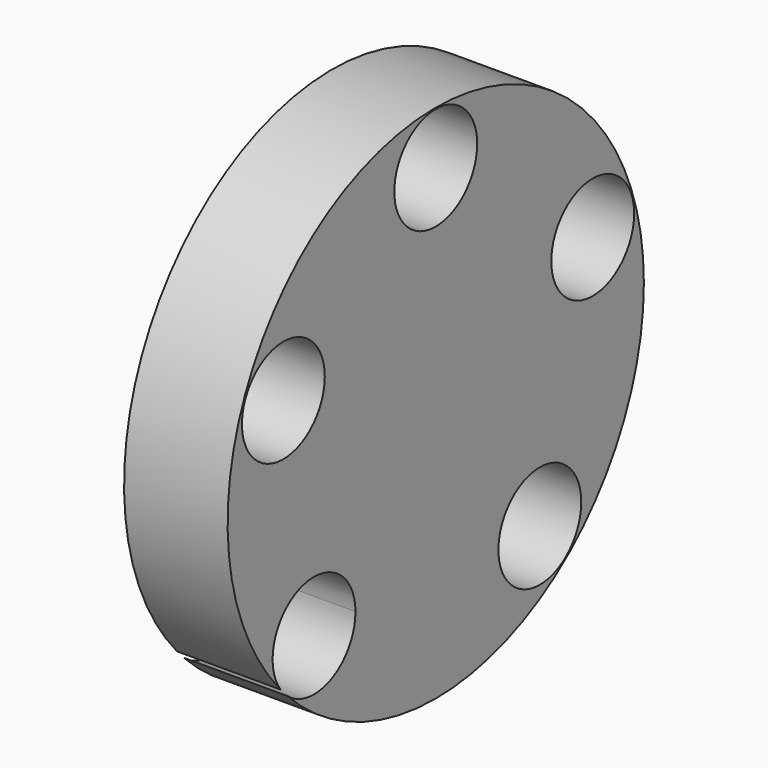
from build123d import *

# Parameters (mm, degrees)
F0_R     = 12.7
F1_DEPTH = 12.7


with BuildPart() as f1:
    # F0 (on Right) → F1 (new body, symmetric)
    with BuildSketch(Plane.YZ):
        with BuildLine():
            ThreePointArc((-45.452309, -44.795775), (24.206988, -59.047401), (63.816721, 0))
            ThreePointArc((63.816721, 0), (-22.773388, 59.614987), (-47.563074, -42.547948))
            ThreePointArc((-47.563074, -42.547948), (-41.266422, -22.971946), (-24.618088, -35.042599))
            ThreePointArc((-24.618088, -35.042599), (-31.933601, -46.544655), (-45.452309, -44.795775))
        make_face()
        with Locations((31.913808, -39.524028)):
            Circle(F0_R, mode=Mode.SUBTRACT)
        with Locations((-46.723463, 19.569239)):
            Circle(F0_R, mode=Mode.SUBTRACT)
        with Locations((0, 50.8)):
            Circle(F0_R, mode=Mode.SUBTRACT)
        with Locations((48.134091, 16.240359)):
            Circle(F0_R, mode=Mode.SUBTRACT)
    extrude(amount=F1_DEPTH, both=True)


solid = f1.part
